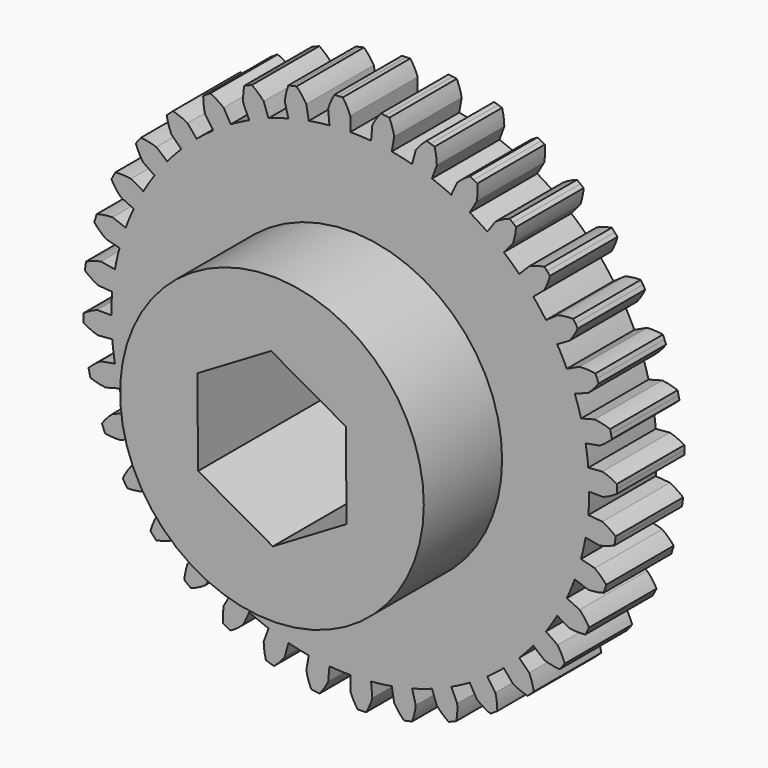
from build123d import *

# Parameters (mm, degrees)
F1_DEPTH = 6.35
F2_R     = 11.43
F3_DEPTH = 7.366
F5_DEPTH = 25.4


with BuildPart() as f1:
    # F0 (on Front) → F1 (new body)
    with BuildSketch(Plane.XZ):
        with BuildLine():
            Line((1.660317, 18.977509), (1.567339, 17.914768))
            ThreePointArc((1.567339, 17.914768), (0.784416, 17.966084), (0, 17.9832))
            Line((0, 17.9832), (0, 19.05))
            ThreePointArc((0, 19.05), (-0.247725, 19.590682), (-0.560906, 20.096274))
            ThreePointArc((-0.560906, 20.096274), (-0.71894, 20.091241), (-0.876929, 20.084965))
            ThreePointArc((-0.876929, 20.084965), (-1.034863, 20.077447), (-1.192734, 20.068688))
            ThreePointArc((-1.192734, 20.068688), (-1.460658, 19.537725), (-1.660317, 18.977509))
            Line((-1.660317, 18.977509), (-1.567339, 17.914768))
            ThreePointArc((-1.567339, 17.914768), (-2.347279, 17.829351), (-3.12275, 17.709995))
            Line((-3.12275, 17.709995), (-3.307998, 18.760588))
            ThreePointArc((-3.307998, 18.760588), (-3.645848, 19.250039), (-4.042066, 19.693566))
            ThreePointArc((-4.042066, 19.693566), (-4.196825, 19.661167), (-4.351324, 19.627553))
            ThreePointArc((-4.351324, 19.627553), (-4.505554, 19.592724), (-4.659505, 19.556683))
            ThreePointArc((-4.659505, 19.556683), (-4.831158, 18.987262), (-4.930503, 18.400887))
            Line((-4.930503, 18.400887), (-4.654395, 17.370437))
            ThreePointArc((-4.654395, 17.370437), (-5.407653, 17.150883), (-6.150617, 16.89868))
            Line((-6.150617, 16.89868), (-6.515484, 17.901144))
            ThreePointArc((-6.515484, 17.901144), (-6.933193, 18.324493), (-7.40041, 18.692479))
            ThreePointArc((-7.40041, 18.692479), (-7.547191, 18.633699), (-7.693506, 18.573767))
            ThreePointArc((-7.693506, 18.573767), (-7.839345, 18.512685), (-7.984699, 18.450459))
            ThreePointArc((-7.984699, 18.450459), (-8.054865, 17.859881), (-8.050878, 17.265163))
            Line((-8.050878, 17.265163), (-7.600029, 16.298314))
            ThreePointArc((-7.600029, 16.298314), (-8.303718, 15.951293), (-8.9916, 15.573908))
            Line((-8.9916, 15.573908), (-9.525, 16.497784))
            ThreePointArc((-9.525, 16.497784), (-10.009877, 16.842166), (-10.533896, 17.123431))
            ThreePointArc((-10.533896, 17.123431), (-10.66824, 17.040055), (-10.801925, 16.955626))
            ThreePointArc((-10.801925, 16.955626), (-10.934942, 16.870148), (-11.067282, 16.783626))
            ThreePointArc((-11.067282, 16.783626), (-11.033829, 16.189837), (-10.926631, 15.604846))
            Line((-10.926631, 15.604846), (-10.31474, 14.730975))
            ThreePointArc((-10.31474, 14.730975), (-10.947479, 14.267032), (-11.559378, 13.77593))
            Line((-11.559378, 13.77593), (-12.245104, 14.593147))
            ThreePointArc((-12.245104, 14.593147), (-12.782416, 14.848099), (-13.347315, 15.034095))
            ThreePointArc((-13.347315, 15.034095), (-13.46514, 14.928658), (-13.582133, 14.822297))
            ThreePointArc((-13.582133, 14.822297), (-13.698286, 14.71502), (-13.813591, 14.606832))
            ThreePointArc((-13.813591, 14.606832), (-13.677536, 14.027872), (-13.470384, 13.470384))
            Line((-13.470384, 13.470384), (-12.716043, 12.716043))
            ThreePointArc((-12.716043, 12.716043), (-13.258606, 12.149274), (-13.77593, 11.559378))
            Line((-13.77593, 11.559378), (-14.593147, 12.245104))
            ThreePointArc((-14.593147, 12.245104), (-15.166568, 12.402879), (-15.755182, 12.487957))
            ThreePointArc((-15.755182, 12.487957), (-15.852909, 12.363661), (-15.949655, 12.238601))
            ThreePointArc((-15.949655, 12.238601), (-16.045414, 12.112783), (-16.140181, 11.986216))
            ThreePointArc((-16.140181, 11.986216), (-15.905658, 11.439678), (-15.604846, 10.926631))
            Line((-15.604846, 10.926631), (-14.730975, 10.31474))
            ThreePointArc((-14.730975, 10.31474), (-15.166877, 9.662366), (-15.573908, 8.9916))
            Line((-15.573908, 8.9916), (-16.497784, 9.525))
            ThreePointArc((-16.497784, 9.525), (-17.089891, 9.580805), (-17.684337, 9.562378))
            ThreePointArc((-17.684337, 9.562378), (-17.758995, 9.423001), (-17.832554, 9.28304))
            ThreePointArc((-17.832554, 9.28304), (-17.905011, 9.142506), (-17.97636, 9.001406))
            ThreePointArc((-17.97636, 9.001406), (-17.650495, 8.503895), (-17.265163, 8.050878))
            Line((-17.265163, 8.050878), (-16.298314, 7.600029))
            ThreePointArc((-16.298314, 7.600029), (-16.61431, 6.881873), (-16.89868, 6.150617))
            Line((-16.89868, 6.150617), (-17.901144, 6.515484))
            ThreePointArc((-17.901144, 6.515484), (-18.493947, 6.467623), (-19.076161, 6.346251))
            ThreePointArc((-19.076161, 6.346251), (-19.125483, 6.196027), (-19.173621, 6.045419))
            ThreePointArc((-19.173621, 6.045419), (-19.220573, 5.894438), (-19.266337, 5.743092))
            ThreePointArc((-19.266337, 5.743092), (-18.85903, 5.309726), (-18.400887, 4.930503))
            Line((-18.400887, 4.930503), (-17.370437, 4.654395))
            ThreePointArc((-17.370437, 4.654395), (-17.556926, 3.892277), (-17.709995, 3.12275))
            Line((-17.709995, 3.12275), (-18.760588, 3.307998))
            ThreePointArc((-18.760588, 3.307998), (-19.336073, 3.157925), (-19.888367, 2.937297))
            ThreePointArc((-19.888367, 2.937297), (-19.910852, 2.78079), (-19.932107, 2.624112))
            ThreePointArc((-19.932107, 2.624112), (-19.952128, 2.467271), (-19.970915, 2.310277))
            ThreePointArc((-19.970915, 2.310277), (-19.494543, 1.954223), (-18.977509, 1.660317))
            Line((-18.977509, 1.660317), (-17.914768, 1.567339))
            ThreePointArc((-17.914768, 1.567339), (-17.966084, 0.784416), (-17.9832, 0))
            Line((-17.9832, 0), (-19.05, 0))
            ThreePointArc((-19.05, 0), (-19.590682, -0.247725), (-20.096274, -0.560906))
            ThreePointArc((-20.096274, -0.560906), (-20.091241, -0.71894), (-20.084965, -0.876929))
            ThreePointArc((-20.084965, -0.876929), (-20.077447, -1.034863), (-20.068688, -1.192734))
            ThreePointArc((-20.068688, -1.192734), (-19.537725, -1.460658), (-18.977509, -1.660317))
            Line((-18.977509, -1.660317), (-17.914768, -1.567339))
            ThreePointArc((-17.914768, -1.567339), (-17.829351, -2.347279), (-17.709995, -3.12275))
            Line((-17.709995, -3.12275), (-18.760588, -3.307998))
            ThreePointArc((-18.760588, -3.307998), (-19.250039, -3.645848), (-19.693566, -4.042066))
            ThreePointArc((-19.693566, -4.042066), (-19.661167, -4.196825), (-19.627553, -4.351324))
            ThreePointArc((-19.627553, -4.351324), (-19.592724, -4.505554), (-19.556683, -4.659505))
            ThreePointArc((-19.556683, -4.659505), (-18.987262, -4.831158), (-18.400887, -4.930503))
            Line((-18.400887, -4.930503), (-17.370437, -4.654395))
            ThreePointArc((-17.370437, -4.654395), (-17.150883, -5.407653), (-16.89868, -6.150617))
            Line((-16.89868, -6.150617), (-17.901144, -6.515484))
            ThreePointArc((-17.901144, -6.515484), (-18.324493, -6.933193), (-18.692479, -7.40041))
            ThreePointArc((-18.692479, -7.40041), (-18.633699, -7.547191), (-18.573767, -7.693506))
            ThreePointArc((-18.573767, -7.693506), (-18.512685, -7.839345), (-18.450459, -7.984699))
            ThreePointArc((-18.450459, -7.984699), (-17.859881, -8.054865), (-17.265163, -8.050878))
            Line((-17.265163, -8.050878), (-16.298314, -7.600029))
            ThreePointArc((-16.298314, -7.600029), (-15.951293, -8.303718), (-15.573908, -8.9916))
            Line((-15.573908, -8.9916), (-16.497784, -9.525))
            ThreePointArc((-16.497784, -9.525), (-16.842166, -10.009877), (-17.123431, -10.533896))
            ThreePointArc((-17.123431, -10.533896), (-17.040055, -10.66824), (-16.955626, -10.801925))
            ThreePointArc((-16.955626, -10.801925), (-16.870148, -10.934942), (-16.783626, -11.067282))
            ThreePointArc((-16.783626, -11.067282), (-16.189837, -11.033829), (-15.604846, -10.926631))
            Line((-15.604846, -10.926631), (-14.730975, -10.31474))
            ThreePointArc((-14.730975, -10.31474), (-14.267032, -10.947479), (-13.77593, -11.559378))
            Line((-13.77593, -11.559378), (-14.593147, -12.245104))
            ThreePointArc((-14.593147, -12.245104), (-14.848099, -12.782416), (-15.034095, -13.347315))
            ThreePointArc((-15.034095, -13.347315), (-14.928658, -13.46514), (-14.822297, -13.582133))
            ThreePointArc((-14.822297, -13.582133), (-14.71502, -13.698286), (-14.606832, -13.813591))
            ThreePointArc((-14.606832, -13.813591), (-14.027872, -13.677536), (-13.470384, -13.470384))
            Line((-13.470384, -13.470384), (-12.716043, -12.716043))
            ThreePointArc((-12.716043, -12.716043), (-12.149274, -13.258606), (-11.559378, -13.77593))
            Line((-11.559378, -13.77593), (-12.245104, -14.593147))
            ThreePointArc((-12.245104, -14.593147), (-12.402879, -15.166568), (-12.487957, -15.755182))
            ThreePointArc((-12.487957, -15.755182), (-12.363661, -15.852909), (-12.238601, -15.949655))
            ThreePointArc((-12.238601, -15.949655), (-12.112783, -16.045414), (-11.986216, -16.140181))
            ThreePointArc((-11.986216, -16.140181), (-11.439678, -15.905658), (-10.926631, -15.604846))
            Line((-10.926631, -15.604846), (-10.31474, -14.730975))
            ThreePointArc((-10.31474, -14.730975), (-9.662366, -15.166877), (-8.9916, -15.573908))
            Line((-8.9916, -15.573908), (-9.525, -16.497784))
            ThreePointArc((-9.525, -16.497784), (-9.580805, -17.089891), (-9.562378, -17.684337))
            ThreePointArc((-9.562378, -17.684337), (-9.423001, -17.758995), (-9.28304, -17.832554))
            ThreePointArc((-9.28304, -17.832554), (-9.142506, -17.905011), (-9.001406, -17.97636))
            ThreePointArc((-9.001406, -17.97636), (-8.503895, -17.650495), (-8.050878, -17.265163))
            Line((-8.050878, -17.265163), (-7.600029, -16.298314))
            ThreePointArc((-7.600029, -16.298314), (-6.881873, -16.61431), (-6.150617, -16.89868))
            Line((-6.150617, -16.89868), (-6.515484, -17.901144))
            ThreePointArc((-6.515484, -17.901144), (-6.467623, -18.493947), (-6.346251, -19.076161))
            ThreePointArc((-6.346251, -19.076161), (-6.196027, -19.125483), (-6.045419, -19.173621))
            ThreePointArc((-6.045419, -19.173621), (-5.894438, -19.220573), (-5.743092, -19.266337))
            ThreePointArc((-5.743092, -19.266337), (-5.309726, -18.85903), (-4.930503, -18.400887))
            Line((-4.930503, -18.400887), (-4.654395, -17.370437))
            ThreePointArc((-4.654395, -17.370437), (-3.892277, -17.556926), (-3.12275, -17.709995))
            Line((-3.12275, -17.709995), (-3.307998, -18.760588))
            ThreePointArc((-3.307998, -18.760588), (-3.157925, -19.336073), (-2.937297, -19.888367))
            ThreePointArc((-2.937297, -19.888367), (-2.78079, -19.910852), (-2.624112, -19.932107))
            ThreePointArc((-2.624112, -19.932107), (-2.467271, -19.952128), (-2.310277, -19.970915))
            ThreePointArc((-2.310277, -19.970915), (-1.954223, -19.494543), (-1.660317, -18.977509))
            Line((-1.660317, -18.977509), (-1.567339, -17.914768))
            ThreePointArc((-1.567339, -17.914768), (-0.784416, -17.966084), (0, -17.9832))
            Line((0, -17.9832), (0, -19.05))
            ThreePointArc((0, -19.05), (0.247725, -19.590682), (0.560906, -20.096274))
            ThreePointArc((0.560906, -20.096274), (0.71894, -20.091241), (0.876929, -20.084965))
            ThreePointArc((0.876929, -20.084965), (1.034863, -20.077447), (1.192734, -20.068688))
            ThreePointArc((1.192734, -20.068688), (1.460658, -19.537725), (1.660317, -18.977509))
            Line((1.660317, -18.977509), (1.567339, -17.914768))
            ThreePointArc((1.567339, -17.914768), (2.347279, -17.829351), (3.12275, -17.709995))
            Line((3.12275, -17.709995), (3.307998, -18.760588))
            ThreePointArc((3.307998, -18.760588), (3.645848, -19.250039), (4.042066, -19.693566))
            ThreePointArc((4.042066, -19.693566), (4.196825, -19.661167), (4.351324, -19.627553))
            ThreePointArc((4.351324, -19.627553), (4.505554, -19.592724), (4.659505, -19.556683))
            ThreePointArc((4.659505, -19.556683), (4.831158, -18.987262), (4.930503, -18.400887))
            Line((4.930503, -18.400887), (4.654395, -17.370437))
            ThreePointArc((4.654395, -17.370437), (5.407653, -17.150883), (6.150617, -16.89868))
            Line((6.150617, -16.89868), (6.515484, -17.901144))
            ThreePointArc((6.515484, -17.901144), (6.933193, -18.324493), (7.40041, -18.692479))
            ThreePointArc((7.40041, -18.692479), (7.547191, -18.633699), (7.693506, -18.573767))
            ThreePointArc((7.693506, -18.573767), (7.839345, -18.512685), (7.984699, -18.450459))
            ThreePointArc((7.984699, -18.450459), (8.054865, -17.859881), (8.050878, -17.265163))
            Line((8.050878, -17.265163), (7.600029, -16.298314))
            ThreePointArc((7.600029, -16.298314), (8.303718, -15.951293), (8.9916, -15.573908))
            Line((8.9916, -15.573908), (9.525, -16.497784))
            ThreePointArc((9.525, -16.497784), (10.009877, -16.842166), (10.533896, -17.123431))
            ThreePointArc((10.533896, -17.123431), (10.66824, -17.040055), (10.801925, -16.955626))
            ThreePointArc((10.801925, -16.955626), (10.934942, -16.870148), (11.067282, -16.783626))
            ThreePointArc((11.067282, -16.783626), (11.033829, -16.189837), (10.926631, -15.604846))
            Line((10.926631, -15.604846), (10.31474, -14.730975))
            ThreePointArc((10.31474, -14.730975), (10.947479, -14.267032), (11.559378, -13.77593))
            Line((11.559378, -13.77593), (12.245104, -14.593147))
            ThreePointArc((12.245104, -14.593147), (12.782416, -14.848099), (13.347315, -15.034095))
            ThreePointArc((13.347315, -15.034095), (13.46514, -14.928658), (13.582133, -14.822297))
            ThreePointArc((13.582133, -14.822297), (13.698286, -14.71502), (13.813591, -14.606832))
            ThreePointArc((13.813591, -14.606832), (13.677536, -14.027872), (13.470384, -13.470384))
            Line((13.470384, -13.470384), (12.716043, -12.716043))
            ThreePointArc((12.716043, -12.716043), (13.258606, -12.149274), (13.77593, -11.559378))
            Line((13.77593, -11.559378), (14.593147, -12.245104))
            ThreePointArc((14.593147, -12.245104), (15.166568, -12.402879), (15.755182, -12.487957))
            ThreePointArc((15.755182, -12.487957), (15.852909, -12.363661), (15.949655, -12.238601))
            ThreePointArc((15.949655, -12.238601), (16.045414, -12.112783), (16.140181, -11.986216))
            ThreePointArc((16.140181, -11.986216), (15.905658, -11.439678), (15.604846, -10.926631))
            Line((15.604846, -10.926631), (14.730975, -10.31474))
            ThreePointArc((14.730975, -10.31474), (15.166877, -9.662366), (15.573908, -8.9916))
            Line((15.573908, -8.9916), (16.497784, -9.525))
            ThreePointArc((16.497784, -9.525), (17.089891, -9.580805), (17.684337, -9.562378))
            ThreePointArc((17.684337, -9.562378), (17.758995, -9.423001), (17.832554, -9.28304))
            ThreePointArc((17.832554, -9.28304), (17.905011, -9.142506), (17.97636, -9.001406))
            ThreePointArc((17.97636, -9.001406), (17.650495, -8.503895), (17.265163, -8.050878))
            Line((17.265163, -8.050878), (16.298314, -7.600029))
            ThreePointArc((16.298314, -7.600029), (16.61431, -6.881873), (16.89868, -6.150617))
            Line((16.89868, -6.150617), (17.901144, -6.515484))
            ThreePointArc((17.901144, -6.515484), (18.493947, -6.467623), (19.076161, -6.346251))
            ThreePointArc((19.076161, -6.346251), (19.125483, -6.196027), (19.173621, -6.045419))
            ThreePointArc((19.173621, -6.045419), (19.220573, -5.894438), (19.266337, -5.743092))
            ThreePointArc((19.266337, -5.743092), (18.85903, -5.309726), (18.400887, -4.930503))
            Line((18.400887, -4.930503), (17.370437, -4.654395))
            ThreePointArc((17.370437, -4.654395), (17.556926, -3.892277), (17.709995, -3.12275))
            Line((17.709995, -3.12275), (18.760588, -3.307998))
            ThreePointArc((18.760588, -3.307998), (19.336073, -3.157925), (19.888367, -2.937297))
            ThreePointArc((19.888367, -2.937297), (19.910852, -2.78079), (19.932107, -2.624112))
            ThreePointArc((19.932107, -2.624112), (19.952128, -2.467271), (19.970915, -2.310277))
            ThreePointArc((19.970915, -2.310277), (19.494543, -1.954223), (18.977509, -1.660317))
            Line((18.977509, -1.660317), (17.914768, -1.567339))
            ThreePointArc((17.914768, -1.567339), (17.966084, -0.784416), (17.9832, 0))
            Line((17.9832, 0), (19.05, 0))
            ThreePointArc((19.05, 0), (19.590682, 0.247725), (20.096274, 0.560906))
            ThreePointArc((20.096274, 0.560906), (20.091241, 0.71894), (20.084965, 0.876929))
            ThreePointArc((20.084965, 0.876929), (20.077447, 1.034863), (20.068688, 1.192734))
            ThreePointArc((20.068688, 1.192734), (19.537725, 1.460658), (18.977509, 1.660317))
            Line((18.977509, 1.660317), (17.914768, 1.567339))
            ThreePointArc((17.914768, 1.567339), (17.829351, 2.347279), (17.709995, 3.12275))
            Line((17.709995, 3.12275), (18.760588, 3.307998))
            ThreePointArc((18.760588, 3.307998), (19.250039, 3.645848), (19.693566, 4.042066))
            ThreePointArc((19.693566, 4.042066), (19.661167, 4.196825), (19.627553, 4.351324))
            ThreePointArc((19.627553, 4.351324), (19.592724, 4.505554), (19.556683, 4.659505))
            ThreePointArc((19.556683, 4.659505), (18.987262, 4.831158), (18.400887, 4.930503))
            Line((18.400887, 4.930503), (17.370437, 4.654395))
            ThreePointArc((17.370437, 4.654395), (17.150883, 5.407653), (16.89868, 6.150617))
            Line((16.89868, 6.150617), (17.901144, 6.515484))
            ThreePointArc((17.901144, 6.515484), (18.324493, 6.933193), (18.692479, 7.40041))
            ThreePointArc((18.692479, 7.40041), (18.633699, 7.547191), (18.573767, 7.693506))
            ThreePointArc((18.573767, 7.693506), (18.512685, 7.839345), (18.450459, 7.984699))
            ThreePointArc((18.450459, 7.984699), (17.859881, 8.054865), (17.265163, 8.050878))
            Line((17.265163, 8.050878), (16.298314, 7.600029))
            ThreePointArc((16.298314, 7.600029), (15.951293, 8.303718), (15.573908, 8.9916))
            Line((15.573908, 8.9916), (16.497784, 9.525))
            ThreePointArc((16.497784, 9.525), (16.842166, 10.009877), (17.123431, 10.533896))
            ThreePointArc((17.123431, 10.533896), (17.040055, 10.66824), (16.955626, 10.801925))
            ThreePointArc((16.955626, 10.801925), (16.870148, 10.934942), (16.783626, 11.067282))
            ThreePointArc((16.783626, 11.067282), (16.189837, 11.033829), (15.604846, 10.926631))
            Line((15.604846, 10.926631), (14.730975, 10.31474))
            ThreePointArc((14.730975, 10.31474), (14.267032, 10.947479), (13.77593, 11.559378))
            Line((13.77593, 11.559378), (14.593147, 12.245104))
            ThreePointArc((14.593147, 12.245104), (14.848099, 12.782416), (15.034095, 13.347315))
            ThreePointArc((15.034095, 13.347315), (14.928658, 13.46514), (14.822297, 13.582133))
            ThreePointArc((14.822297, 13.582133), (14.71502, 13.698286), (14.606832, 13.813591))
            ThreePointArc((14.606832, 13.813591), (14.027872, 13.677536), (13.470384, 13.470384))
            Line((13.470384, 13.470384), (12.716043, 12.716043))
            ThreePointArc((12.716043, 12.716043), (12.149274, 13.258606), (11.559378, 13.77593))
            Line((11.559378, 13.77593), (12.245104, 14.593147))
            ThreePointArc((12.245104, 14.593147), (12.402879, 15.166568), (12.487957, 15.755182))
            ThreePointArc((12.487957, 15.755182), (12.363661, 15.852909), (12.238601, 15.949655))
            ThreePointArc((12.238601, 15.949655), (12.112783, 16.045414), (11.986216, 16.140181))
            ThreePointArc((11.986216, 16.140181), (11.439678, 15.905658), (10.926631, 15.604846))
            Line((10.926631, 15.604846), (10.31474, 14.730975))
            ThreePointArc((10.31474, 14.730975), (9.662366, 15.166877), (8.9916, 15.573908))
            Line((8.9916, 15.573908), (9.525, 16.497784))
            ThreePointArc((9.525, 16.497784), (9.580805, 17.089891), (9.562378, 17.684337))
            ThreePointArc((9.562378, 17.684337), (9.423001, 17.758995), (9.28304, 17.832554))
            ThreePointArc((9.28304, 17.832554), (9.142506, 17.905011), (9.001406, 17.97636))
            ThreePointArc((9.001406, 17.97636), (8.503895, 17.650495), (8.050878, 17.265163))
            Line((8.050878, 17.265163), (7.600029, 16.298314))
            ThreePointArc((7.600029, 16.298314), (6.881873, 16.61431), (6.150617, 16.89868))
            Line((6.150617, 16.89868), (6.515484, 17.901144))
            ThreePointArc((6.515484, 17.901144), (6.467623, 18.493947), (6.346251, 19.076161))
            ThreePointArc((6.346251, 19.076161), (6.196027, 19.125483), (6.045419, 19.173621))
            ThreePointArc((6.045419, 19.173621), (5.894438, 19.220573), (5.743092, 19.266337))
            ThreePointArc((5.743092, 19.266337), (5.309726, 18.85903), (4.930503, 18.400887))
            Line((4.930503, 18.400887), (4.654395, 17.370437))
            ThreePointArc((4.654395, 17.370437), (3.892277, 17.556926), (3.12275, 17.709995))
            Line((3.12275, 17.709995), (3.307998, 18.760588))
            ThreePointArc((3.307998, 18.760588), (3.157925, 19.336073), (2.937297, 19.888367))
            ThreePointArc((2.937297, 19.888367), (2.78079, 19.910852), (2.624112, 19.932107))
            ThreePointArc((2.624112, 19.932107), (2.467271, 19.952128), (2.310277, 19.970915))
            ThreePointArc((2.310277, 19.970915), (1.954223, 19.494543), (1.660317, 18.977509))
        make_face()
    extrude(amount=F1_DEPTH)

    # F2 (on face) → F3 (join)
    with BuildSketch(Plane.XZ.offset(6.35)):
        Circle(F2_R)
    extrude(amount=F3_DEPTH)

    # F4 (on face) → F5 (cut)
    with BuildSketch(Plane.XZ.offset(13.716)):
        Polygon((0.066428, -6.452125), (5.620918, -3.168534), (5.55449, 3.28359), (-0.066428, 6.452125), (-5.620918, 3.168534), (-5.55449, -3.28359), align=None)
    extrude(amount=-F5_DEPTH, mode=Mode.SUBTRACT)


solid = f1.part
